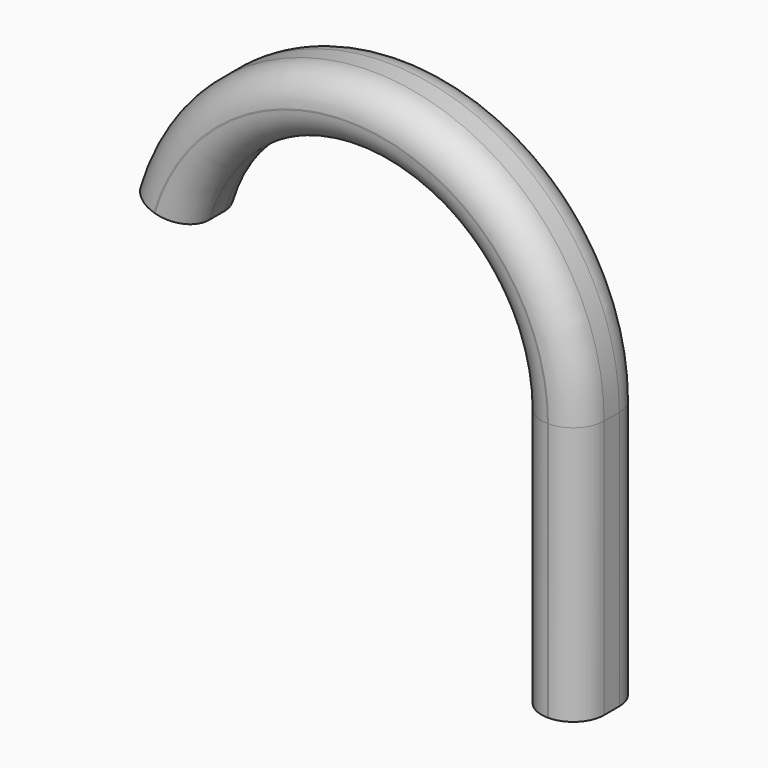
from build123d import *


with BuildPart() as f2:
    # F2: sweep along a path in F1
    with BuildLine(Plane.XZ) as f2_path:
        Line((0, 0), (0, 21.266934))
        ThreePointArc((0, 21.266934), (-14.122632, 37.604546), (-32.331483, 25.994033))
    # F0 (on Top) → F2 (sweep)
    with BuildSketch(Plane.XY):
        with BuildLine():
            Line((-0.040967, -3.318387), (0.040967, -3.318387))
            ThreePointArc((0.040967, -3.318387), (1.837019, -2.574439), (2.580967, -0.778387))
            Line((2.580967, -0.778387), (2.580967, 0.778387))
            ThreePointArc((2.580967, 0.778387), (1.837019, 2.574439), (0.040967, 3.318387))
            Line((0.040967, 3.318387), (-0.040967, 3.318387))
            ThreePointArc((-0.040967, 3.318387), (-1.837019, 2.574439), (-2.580967, 0.778387))
            Line((-2.580967, 0.778387), (-2.580967, -0.778387))
            ThreePointArc((-2.580967, -0.778387), (-1.837019, -2.574439), (-0.040967, -3.318387))
        make_face()
    sweep(path=f2_path.line)


solid = f2.part
